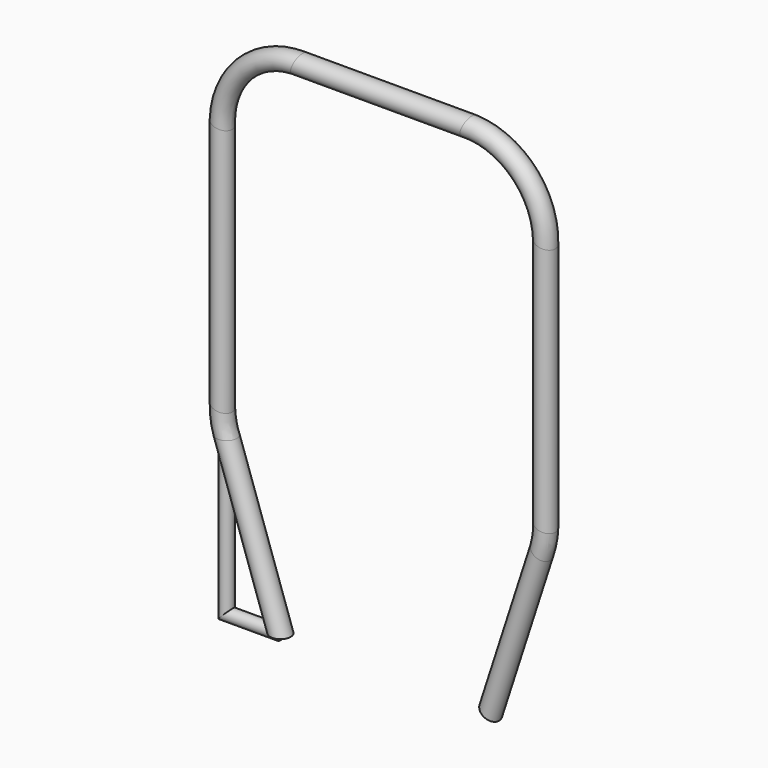
from build123d import *

# Parameters (mm, degrees)
F1_R = 20
F5_R = 12.5


with BuildPart() as f2:
    # F2: sweep along a path in F0
    with BuildLine(Plane.XZ) as f2_path:
        Line((-205, 0), (-310.0347490347, 306.3513513514))
        ThreePointArc((-310.0347490348, 306.3513513514), (-316.1019457177, 330.3401519042), (-318.1428571429, 355))
        Line((-318.1428571429, 355), (-318.1428571429, 840))
        ThreePointArc((-318.1428571429, 840), (-274.2088743208, 946.066017178), (-168.1428571429, 990))
        Line((-168.1428571429, 990), (161.8571428571, 990))
        ThreePointArc((161.8571428571, 990), (267.9231600351, 946.066017178), (311.8571428571, 840))
        Line((311.8571428571, 840), (311.8571428571, 353.680445735))
        ThreePointArc((311.8571428571, 353.680445735), (310.0221604984, 330.2896880011), (304.5621088923, 307.4712186379))
        Line((304.5621088923, 307.4712186379), (205, 0))
    # F1 (on Top) → F2 (sweep)
    with BuildSketch(Plane.XY):
        with Locations((-205, 0)):
            Circle(F1_R)
    sweep(path=f2_path.line)


with BuildPart() as f6:
    # F6: sweep along a path in F3
    with BuildLine(Plane.XZ) as f6_path:
        Line((-205, 0), (-310.0347490348, 0))
        Line((-310.0347490348, 0), (-310.0347490348, 306.3513513514))
    # F5 (on plane+point) → F6 (sweep)
    with BuildSketch(Plane.YZ.offset(-205)):
        Circle(F5_R)
    sweep(path=f6_path.line, transition=Transition.RIGHT)


solid = Compound([f2.part, f6.part])
